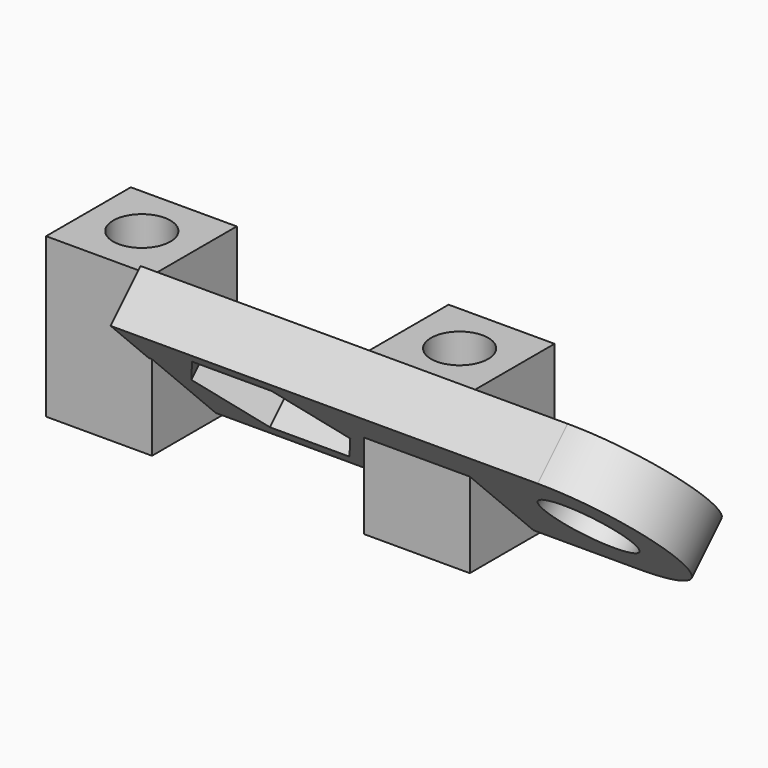
from build123d import *

# Parameters (mm, degrees)
SKETCH039_R             = 4.2
PAD019_DEPTH            = 5
BOX_W                   = 10
BOX_H                   = 10
BOX_DEPTH               = 15
POCKET011_DEPTH         = 3
SKETCH041_R             = 2.7
POCKET012_DEPTH         = 130.641501891
BODY007_PLACEMENT_ANGLE = 45


with BuildPart() as part:
    # Sketch039 → Pad019 (new body)
    with BuildSketch(Plane.XZ):
        with BuildLine():
            ThreePointArc((30, -8.5), (38.5, 0), (30, 8.5))
            Line((0, 8.5), (30, 8.5))
            Line((-10.313604, 8.5), (0, 8.5))
            Line((-10.313604, -8.5), (-10.313604, 8.5))
            Line((0, -8.5), (-10.313604, -8.5))
            Line((0, -8.5), (30, -8.5))
        make_face()
        Circle(SKETCH039_R, mode=Mode.SUBTRACT)
        with Locations((30, 0)):
            Circle(SKETCH039_R, mode=Mode.SUBTRACT)
    extrude(amount=PAD019_DEPTH)

    # Box → Box (join)
    with BuildSketch(Plane(origin=(10, 7, 0), x_dir=(1, 0, 0), z_dir=(0, -0.7071067812, -0.7071067812))):
        with Locations((5, 5)):
            Rectangle(BOX_W, BOX_H)
    box = extrude(amount=BOX_DEPTH)

    # Sketch040 (on Face5 of Box) → Pocket011 (cut)
    with BuildSketch(Plane(origin=(10, -5, 0), x_dir=(1, 0, 0), z_dir=(0, -1, 0))):
        Polygon((-6.2472232503, 6.5), (-13.7527767497, 6.5), (-17.5055534995, 0), (-13.7527767497, -6.5), (-6.2472232503, -6.5), (-2.4944465005, 0), align=None)
    extrude(amount=-POCKET011_DEPTH, mode=Mode.SUBTRACT)

    # Sketch041 (on Face15 of Pocket011) → Pocket012 (cut, through all)
    with BuildSketch(Plane(origin=(10, 7, 0), x_dir=(1, 0, 0), z_dir=(0, 0.7071067812, 0.7071067812))):
        with Locations((5, -4.9497474683)):
            Circle(SKETCH041_R)
    pocket012 = extrude(amount=-POCKET012_DEPTH, mode=Mode.SUBTRACT)

    # Mirrored010: Box, Pocket012 across YZ
    add(box.mirror(Plane.YZ))
    add(pocket012.mirror(Plane.YZ), mode=Mode.SUBTRACT)


with BuildPart() as part_1:
    # Body007 placement: moved
    add(part.part.moved(Location((0, 59, 11))).rotate(Axis((0, 59, 11), (1, 0, 0)), BODY007_PLACEMENT_ANGLE))


solid = part_1.part
